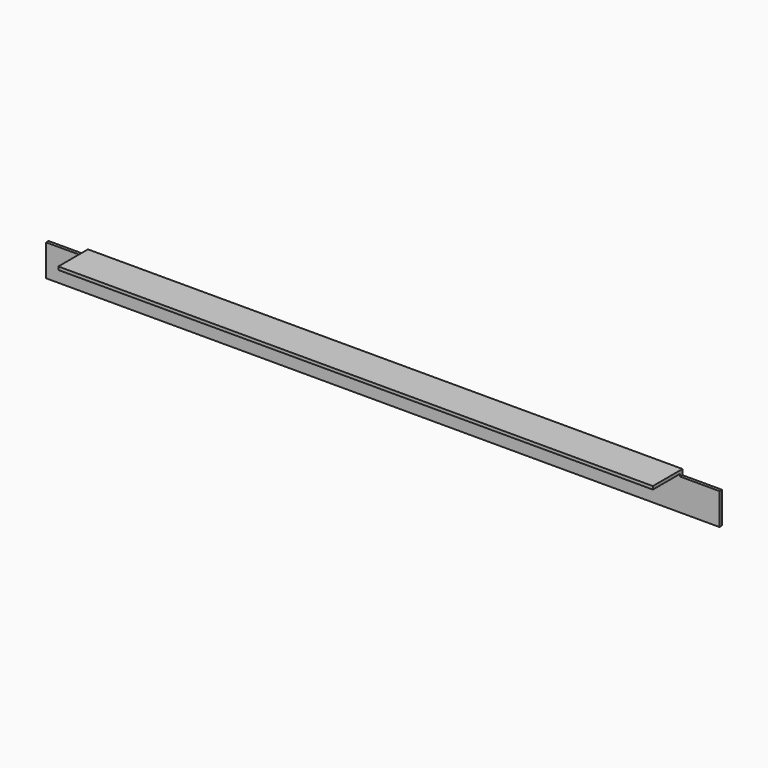
from build123d import *

# Parameters (mm, degrees)
F1_DEPTH = 6.35
F2_W     = 1222.248
F2_H     = 6.35
F3_DEPTH = 69.85


with BuildPart() as f1:
    # F0 (on Front) → F1 (new body)
    with BuildSketch(Plane.XZ):
        Polygon((-692.15, 26.924), (-692.15, -38.1), (692.15, -38.1), (692.15, 26.924), (611.124, 26.924), (611.124, 38.1), (-611.124, 38.1), (-611.124, 26.924), align=None)
    extrude(amount=F1_DEPTH)

    # F2 (on face) → F3 (join)
    with BuildSketch(Plane.XZ.offset(6.35)):
        with Locations((0, 34.925)):
            Rectangle(F2_W, F2_H)
    extrude(amount=F3_DEPTH)


solid = f1.part
